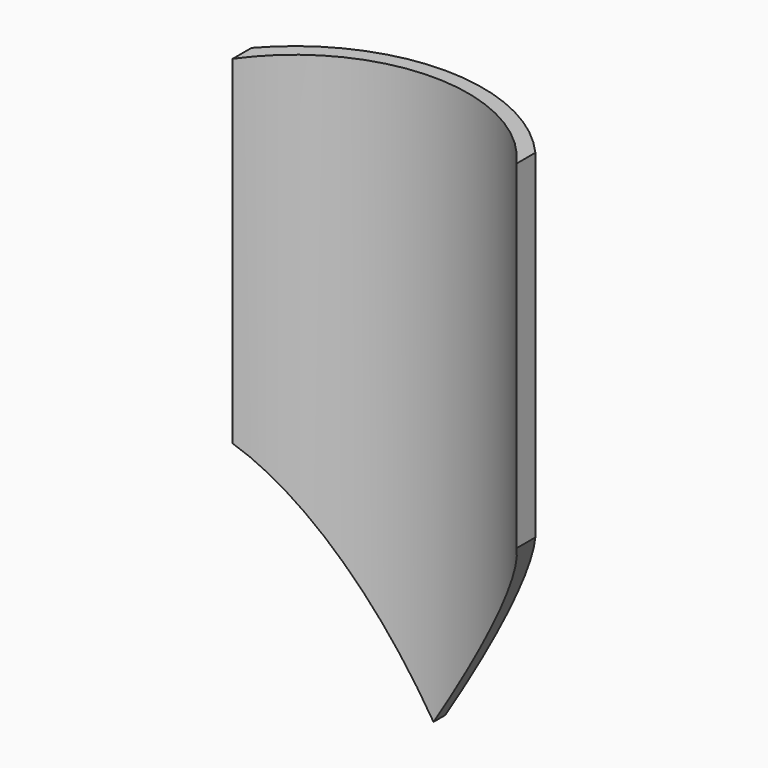
from build123d import *

# Parameters (mm, degrees)
F1_DEPTH      = 250
F1_DEPTH_BACK = 250
F3_DEPTH      = 165.65046


with BuildPart() as f1:
    # F0 (on Top) → F1 (new body, two sides)
    with BuildSketch(Plane.XY) as f1_sk:
        with BuildLine():
            Line((125, 87.878756), (125, 108.695647))
            ThreePointArc((125, 108.695647), (0, 165.64946), (-125, 108.695647))
            Line((-125, 108.695647), (-125, 87.878756))
            ThreePointArc((-125, 87.878756), (0, 152.799463), (125, 87.878756))
        make_face()
    extrude(amount=F1_DEPTH)
    extrude(f1_sk.sketch, amount=-F1_DEPTH_BACK)

    # F2 (on Front) → F3 (cut, through all)
    with BuildSketch(Plane.XZ):
        Polygon((-125, -250.156015), (0, -250), (-125, -48.299942), align=None)
        Polygon((125, -250), (125, -48.299942), (0, -250), align=None)
    extrude(amount=-F3_DEPTH, mode=Mode.SUBTRACT)


solid = f1.part
